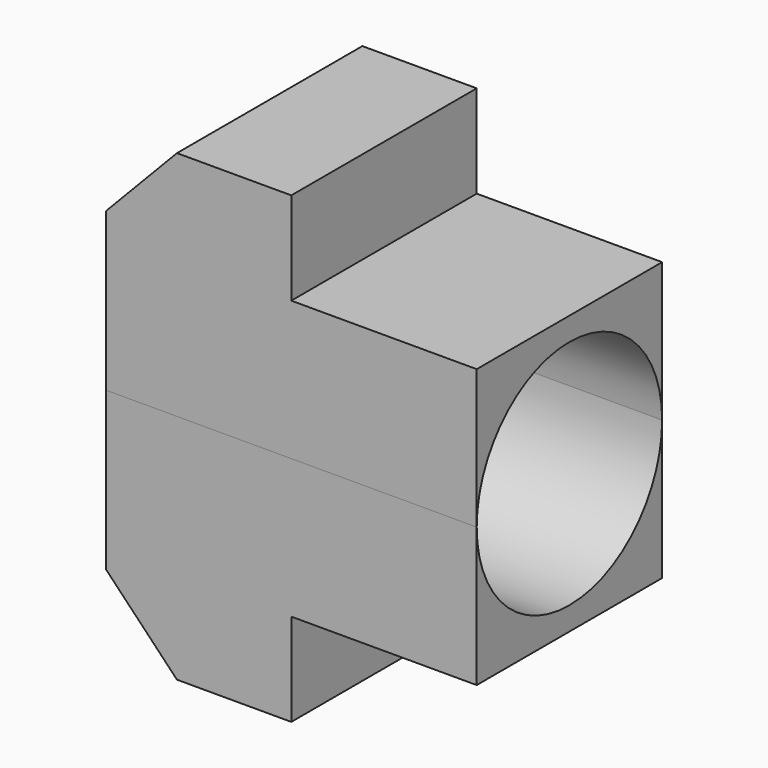
from build123d import *

# Parameters (mm, degrees)
F0_W     = 8
F0_H     = 2.5
F1_DEPTH = 2.5


with BuildPart() as f1:
    # F0 (on Front) → F1 (new body, symmetric)
    with BuildSketch(Plane.XZ):
        Polygon((-52.3935292214, 3.4), (-52.3935292214, 2.5), (-44.3935292214, 2.5), (-44.3935292214, 3), (-48.3935292214, 3), (-48.3935292214, 5), (-50.860196112, 5), align=None)
        with Locations((-48.3935292214, 1.25)):
            Rectangle(F0_W, F0_H)
        Polygon((-44.3935292214, -2.5), (-52.3935292214, -2.5), (-52.3935292214, -3.4), (-50.860196112, -5), (-48.3935292214, -5), (-48.3935292214, -3), (-44.3935292214, -3), align=None)
        with Locations((-48.3935292214, -1.25)):
            Rectangle(F0_W, F0_H)
    extrude(amount=F1_DEPTH, both=True)

    # F0 (on Front) → F2 (revolve, cut)
    with BuildSketch(Plane.XZ):
        with Locations((-48.3935292214, 1.25)):
            Rectangle(F0_W, F0_H)
    revolve(axis=Axis((-48.0549484491, 0, 0), (1, 0, 0)), mode=Mode.SUBTRACT)


solid = f1.part
